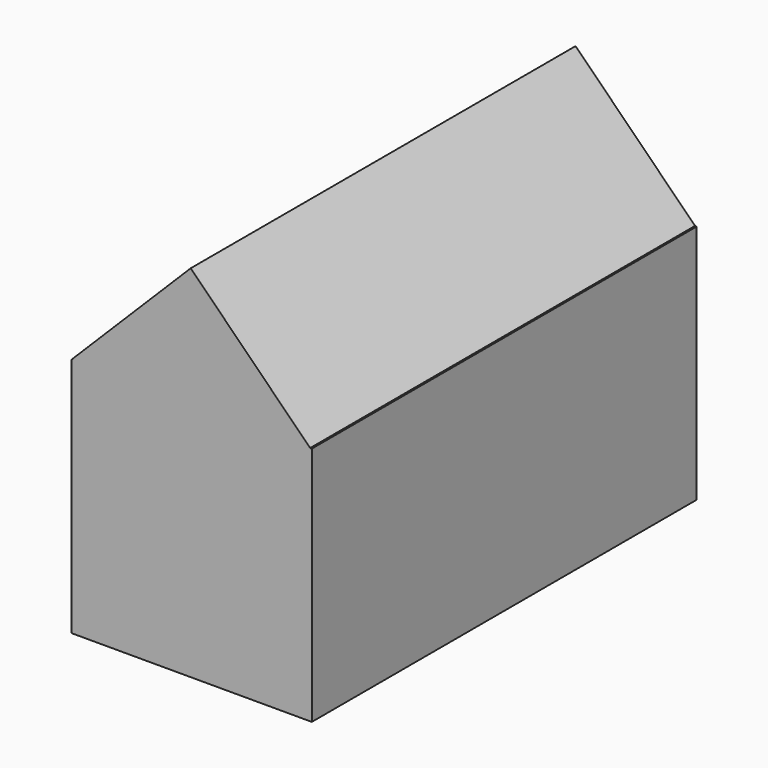
from build123d import *

# Parameters (mm, degrees)
BOX001_W               = 7
BOX001_H               = 20
BOX001_DEPTH           = 7.05
BOX001_PLACEMENT_ANGLE = 45
BOX_W                  = 10
BOX_H                  = 20
BOX_DEPTH              = 10


with BuildPart() as cub001:
    # Box001 → Box001 (new body)
    with BuildSketch(Plane.XY):
        with Locations((3.5, 10)):
            Rectangle(BOX001_W, BOX001_H)
    extrude(amount=BOX001_DEPTH)


with BuildPart() as cub001_1:
    # Box001 placement: moved
    add(cub001.part.moved(Location((5, 0, 5.03))).rotate(Axis((5, 0, 5.03), (0, -1, 0)), BOX001_PLACEMENT_ANGLE))


with BuildPart() as fusion:
    # Box → Box (new body)
    with BuildSketch(Plane.XY):
        with Locations((5, 10)):
            Rectangle(BOX_W, BOX_H)
    extrude(amount=BOX_DEPTH)

    # Fusion: union Cub001
    add(cub001_1.part)


solid = fusion.part
